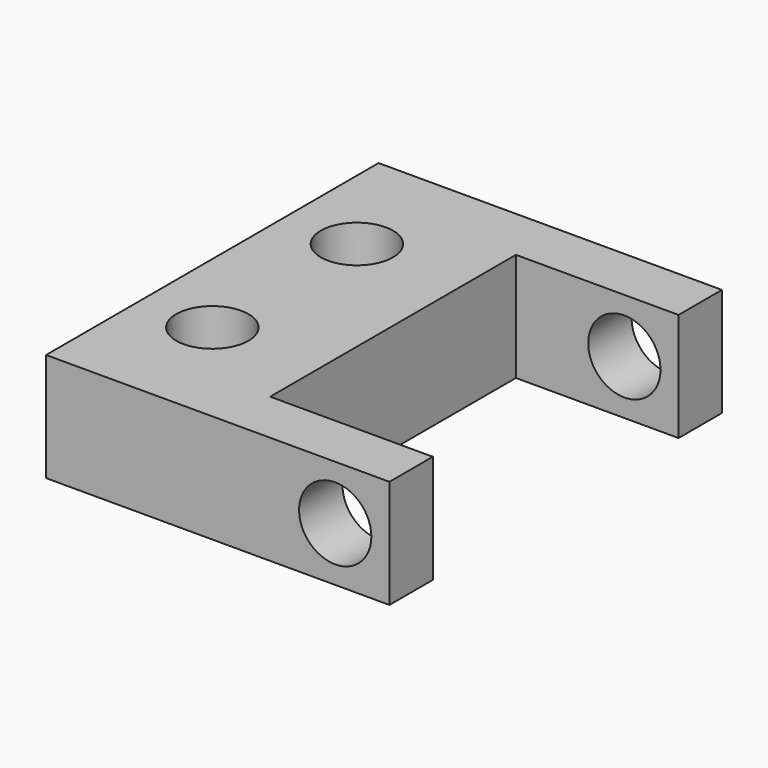
from build123d import *

# Parameters (mm, degrees)
CYLINDER003_R          = 2
CYLINDER003_DEPTH      = 25
CYLINDER003_ROLL_ANGLE = 90
BOX001_W               = 19
BOX001_H               = 3
BOX001_DEPTH           = 6
BOX002_W               = 19
BOX002_H               = 3
BOX002_DEPTH           = 6
CYLINDER002_R          = 2
CYLINDER002_DEPTH      = 10
CYLINDER001_R          = 2
CYLINDER001_DEPTH      = 10
CYLINDER_R             = 2
CYLINDER_DEPTH         = 10
BOX_W                  = 10
BOX_H                  = 17
BOX_DEPTH              = 6


with BuildPart() as cylinder003:
    # Cylinder003 → Cylinder003 (new body)
    with BuildSketch(Plane.XY):
        Circle(CYLINDER003_R)
    extrude(amount=CYLINDER003_DEPTH)


with BuildPart() as cylinder003_1:
    # Cylinder003 roll: moved
    add(cylinder003.part.rotate(Axis((0, 0, 0), (1, 0, 0)), CYLINDER003_ROLL_ANGLE))


with BuildPart() as cylinder003_2:
    # Cylinder003 placement: moved
    add(cylinder003_1.part.moved(Location((16, 21, 3))))


with BuildPart() as cube001:
    # Box001 → Box001 (new body)
    with BuildSketch(Plane(origin=(0, -3, 0), x_dir=(1, 0, 0), z_dir=(0, 0, 1))):
        with Locations((9.5, 1.5)):
            Rectangle(BOX001_W, BOX001_H)
    extrude(amount=BOX001_DEPTH)


with BuildPart() as cube002:
    # Box002 → Box002 (new body)
    with BuildSketch(Plane(origin=(0, 17, 0), x_dir=(1, 0, 0), z_dir=(0, 0, 1))):
        with Locations((9.5, 1.5)):
            Rectangle(BOX002_W, BOX002_H)
    extrude(amount=BOX002_DEPTH)


with BuildPart() as cylinder002:
    # Cylinder002 → Cylinder002 (new body)
    with BuildSketch(Plane(origin=(4, 13.5, 0), x_dir=(1, 0, 0), z_dir=(0, 0, 1))):
        Circle(CYLINDER002_R)
    extrude(amount=CYLINDER002_DEPTH)


with BuildPart() as cylinder001:
    # Cylinder001 → Cylinder001 (new body)
    with BuildSketch(Plane(origin=(4, 3.5, 0), x_dir=(1, 0, 0), z_dir=(0, 0, 1))):
        Circle(CYLINDER001_R)
    extrude(amount=CYLINDER001_DEPTH)


with BuildPart() as cylinder:
    # Cylinder → Cylinder (new body)
    with BuildSketch(Plane(origin=(4, 3.5, 0), x_dir=(1, 0, 0), z_dir=(0, 0, 1))):
        Circle(CYLINDER_R)
    extrude(amount=CYLINDER_DEPTH)


with BuildPart() as cut003:
    # Box → Box (new body)
    with BuildSketch(Plane.XY):
        with Locations((5, 8.5)):
            Rectangle(BOX_W, BOX_H)
    extrude(amount=BOX_DEPTH)

    # Cut: cut Cylinder
    add(cylinder.part, mode=Mode.SUBTRACT)

    # Cut001: cut Cylinder001
    add(cylinder001.part, mode=Mode.SUBTRACT)

    # Cut002: cut Cylinder002
    add(cylinder002.part, mode=Mode.SUBTRACT)

    # Fusion: union Cube001, Cube002
    add(cube001.part)
    add(cube002.part)

    # Cut003: cut Cylinder003
    add(cylinder003_2.part, mode=Mode.SUBTRACT)


solid = cut003.part
